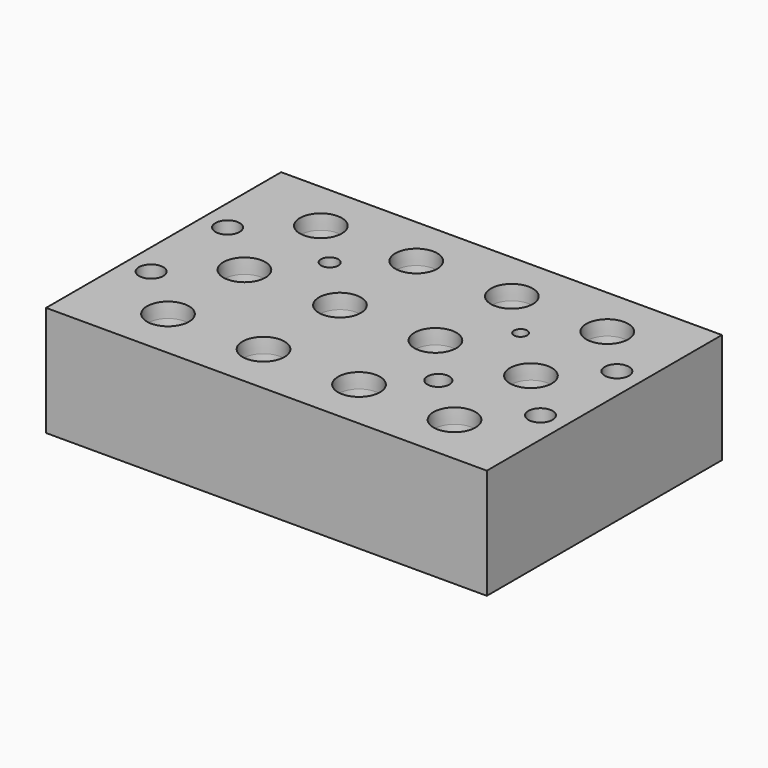
from build123d import *

# Parameters (mm, degrees)
CYLINDER003_R         = 0.9
CYLINDER003_DEPTH     = 10
CYLINDER004_R         = 1.175
CYLINDER004_DEPTH     = 10
CYLINDER005_R         = 1.5
CYLINDER005_DEPTH     = 10
CYLINDER001_R         = 1.65
CYLINDER001_DEPTH     = 30
ARRAY002_X_COUNT      = 2
ARRAY002_X_PITCH      = 13
ARRAY002_Y_COUNT      = 2
ARRAY002_Y_PITCH      = 53
ARRAY_X_COUNT         = 3
ARRAY_X_PITCH         = 13
ARRAY_Y_COUNT         = 4
ARRAY_Y_PITCH         = 13
BOX_W                 = 40
BOX_H                 = 60
BOX_DEPTH             = 15
CLONE_PLACEMENT_ANGLE = 90


with BuildPart() as cylinder003:
    # Cylinder003 → Cylinder003 (new body)
    with BuildSketch(Plane(origin=(27, 17, -9), x_dir=(1, 0, 0), z_dir=(0, 0, 1))):
        Circle(CYLINDER003_R)
    extrude(amount=CYLINDER003_DEPTH)


with BuildPart() as cylinder004:
    # Cylinder004 → Cylinder004 (new body)
    with BuildSketch(Plane(origin=(27, 43, -9), x_dir=(1, 0, 0), z_dir=(0, 0, 1))):
        Circle(CYLINDER004_R)
    extrude(amount=CYLINDER004_DEPTH)


with BuildPart() as cylinder005:
    # Cylinder005 → Cylinder005 (new body)
    with BuildSketch(Plane(origin=(13, 17, -9), x_dir=(1, 0, 0), z_dir=(0, 0, 1))):
        Circle(CYLINDER005_R)
    extrude(amount=CYLINDER005_DEPTH)


with BuildPart() as hole_union:
    # Cylinder001 → Cylinder001 (new body)
    with BuildSketch(Plane.XY.offset(-20)):
        Circle(CYLINDER001_R)
    extrude(amount=CYLINDER001_DEPTH)

    # Array002 X: hole union ×2


with BuildPart() as hole_union_1:
    add(hole_union.part)
    with Locations(*[(i * ARRAY002_X_PITCH, 0, 0) for i in range(1, ARRAY002_X_COUNT)]):
        add(hole_union.part)

    # Array002 Y: hole union ×2


with BuildPart() as hole_union_2:
    add(hole_union_1.part)
    with Locations(*[(0, i * ARRAY002_Y_PITCH, 0) for i in range(1, ARRAY002_Y_COUNT)]):
        add(hole_union_1.part)


with BuildPart() as hole_union_3:
    # Array002 placement: moved
    add(hole_union_2.part.moved(Location((13.5, 3.5, 0))))

    # Fusion001: union Cylinder003, Cylinder004, Cylinder005
    add(cylinder003.part)
    add(cylinder004.part)
    add(cylinder005.part)


with BuildPart() as top_cone:
    # Cone → Cone (revolve)
    with BuildSketch(Plane(origin=(0, 0, -7), x_dir=(1, 0, 0), z_dir=(0, -1, 0))):
        Polygon((0, 0), (2.8, 0), (3, 7), (0, 7), align=None)
    revolve(axis=Axis((0, 0, -7), (0, 0, 1)))


with BuildPart() as cone_array:
    # Cone001 → Cone001 (revolve)
    with BuildSketch(Plane(origin=(0, 0, -19), x_dir=(-1, 0, 0), z_dir=(0, 1, 0))):
        Polygon((0, 0), (1.2, 0), (2.8, 12), (0, 12), align=None)
    revolve(axis=Axis((0, 0, -19), (0, 0, 1)))

    # Fusion: union top cone
    add(top_cone.part)


with BuildPart() as cone_array_1:
    # Fusion placement: moved
    add(cone_array.part.moved(Location((0, 0, 5))))

    # Array X: cone array ×3


with BuildPart() as cone_array_2:
    add(cone_array_1.part)
    with Locations(*[(i * ARRAY_X_PITCH, 0, 0) for i in range(1, ARRAY_X_COUNT)]):
        add(cone_array_1.part)

    # Array Y: cone array ×4


with BuildPart() as cone_array_3:
    add(cone_array_2.part)
    with Locations(*[(0, i * ARRAY_Y_PITCH, 0) for i in range(1, ARRAY_Y_COUNT)]):
        add(cone_array_2.part)


with BuildPart() as cone_array_4:
    # Array placement: moved
    add(cone_array_3.part.moved(Location((7, 10, 0))))


with BuildPart() as model_all_cut:
    # Box → Box (new body)
    with BuildSketch(Plane.XY.offset(-15)):
        with Locations((20, 30)):
            Rectangle(BOX_W, BOX_H)
    extrude(amount=BOX_DEPTH)

    # Cut: cut cone array
    add(cone_array_4.part, mode=Mode.SUBTRACT)

    # Cut001: cut hole union
    add(hole_union_3.part, mode=Mode.SUBTRACT)


with BuildPart() as model_all_cut_1:
    # Clone placement: moved
    add(model_all_cut.part.moved(Location((60, 0, 0))).rotate(Axis((60, 0, 0), (0, 0, 1)), CLONE_PLACEMENT_ANGLE))


solid = model_all_cut_1.part
